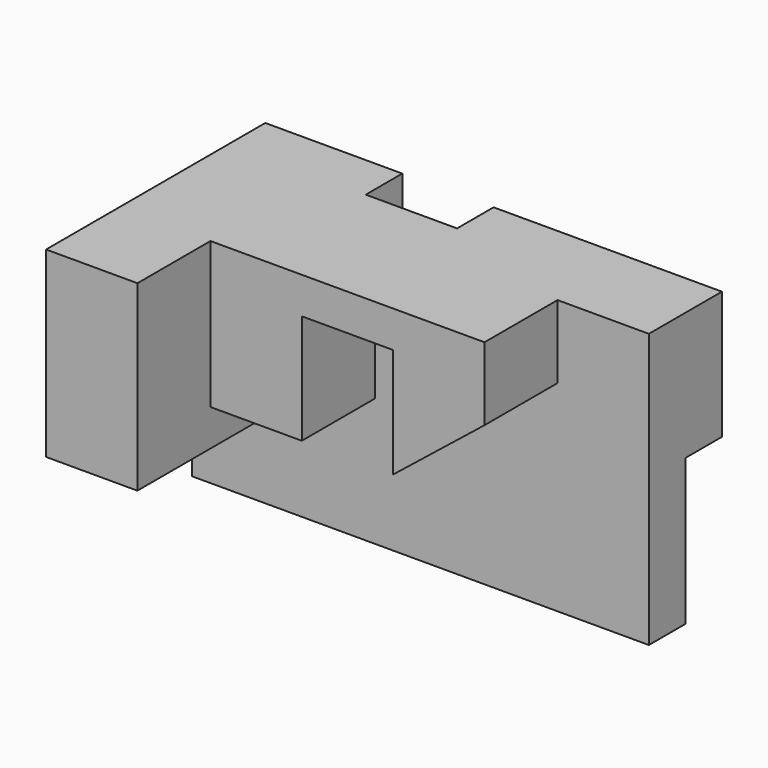
from build123d import *

# Parameters (mm, degrees)
F1_DEPTH = 63.5
F2_DEPTH = 127
F3_DEPTH = 63.5
F4_W     = 63.5
F4_H     = 31.75
F5_DEPTH = 101.6
F6_DEPTH = 190.501


with BuildPart() as f1:
    # F0 (on Front) → F1 (new body)
    with BuildSketch(Plane.XZ):
        Polygon((-158.75, -31.75), (-158.75, -95.25), (158.75, -95.25), (158.75, 95.25), (95.25, 95.25), (95.25, 44.45), (31.75, -6.35), (31.75, 69.85), (-31.75, 69.85), (-31.75, -6.35), (-95.25, -6.35), (-95.25, -31.75), align=None)
        Polygon((95.25, 44.45), (95.25, 95.25), (-95.25, 95.25), (-95.25, -6.35), (-31.75, -6.35), (-31.75, 69.85), (31.75, 69.85), (31.75, -6.35), align=None)
        Polygon((-158.75, 95.25), (-158.75, -31.75), (-95.25, -31.75), (-95.25, -6.35), (-95.25, 95.25), align=None)
    extrude(amount=-F1_DEPTH)

    # F0 (on Front) → F2 (join)
    with BuildSketch(Plane.XZ):
        Polygon((-158.75, 95.25), (-158.75, -31.75), (-95.25, -31.75), (-95.25, -6.35), (-95.25, 95.25), align=None)
    extrude(amount=F2_DEPTH)

    # F0 (on Front) → F3 (join)
    with BuildSketch(Plane.XZ):
        Polygon((95.25, 44.45), (95.25, 95.25), (-95.25, 95.25), (-95.25, -6.35), (-31.75, -6.35), (-31.75, 69.85), (31.75, 69.85), (31.75, -6.35), align=None)
    extrude(amount=F3_DEPTH)

    # F4 (on face) → F5 (cut)
    with BuildSketch(Plane(origin=(0, 0, -95.25), x_dir=(1, 0, 0), z_dir=(0, 0, -1))):
        with Locations((127, -47.625)):
            Rectangle(F4_W, F4_H)
    extrude(amount=-F5_DEPTH, mode=Mode.SUBTRACT)

    # F4 (on face) → F6 (cut, through all)
    with BuildSketch(Plane(origin=(0, 0, -95.25), x_dir=(1, 0, 0), z_dir=(0, 0, -1))):
        with Locations((-31.75, -47.625)):
            Rectangle(F4_W, F4_H)
    extrude(amount=-F6_DEPTH, mode=Mode.SUBTRACT)


solid = f1.part
